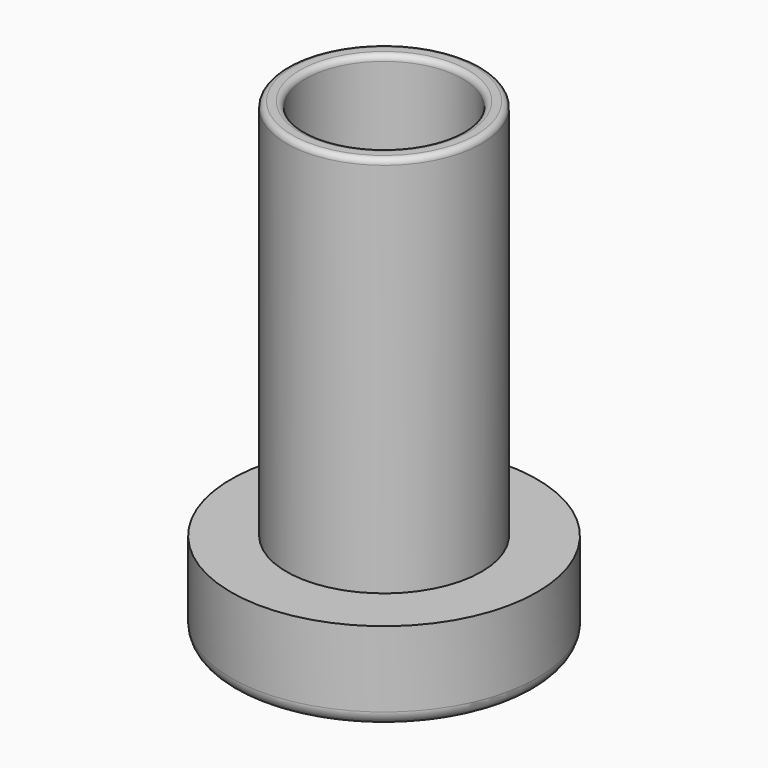
from build123d import *

# Parameters (mm, degrees)
F0_R     = 8
F0_R_2   = 5.1
F0_R_3   = 4.1
F1_DEPTH = 4.7
F2_DEPTH = 24.7
F3_R     = 0.3
F4_R     = 0.75


with BuildPart() as f1:
    # F0 (on Top) → F1 (new body)
    with BuildSketch(Plane.XY):
        Circle(F0_R)
        Circle(F0_R_2, mode=Mode.SUBTRACT)
        Circle(F0_R_2)
        Circle(F0_R_3, mode=Mode.SUBTRACT)
        Circle(F0_R_3)
    extrude(amount=F1_DEPTH)

    # F0 (on Top) → F2 (join)
    with BuildSketch(Plane.XY):
        Circle(F0_R_2)
        Circle(F0_R_3, mode=Mode.SUBTRACT)
    extrude(amount=F2_DEPTH)

    # F3
    f3_edges = [f1.edges().sort_by_distance(p)[0] for p in [
        (-5.1, 0, 24.7),
        (-4.1, 0, 24.7),
    ]]
    fillet(f3_edges, radius=F3_R)

    # F4
    f4_edges = [f1.edges().sort_by_distance(p)[0] for p in [
        (-8, 0, 0),
    ]]
    fillet(f4_edges, radius=F4_R)


solid = f1.part
